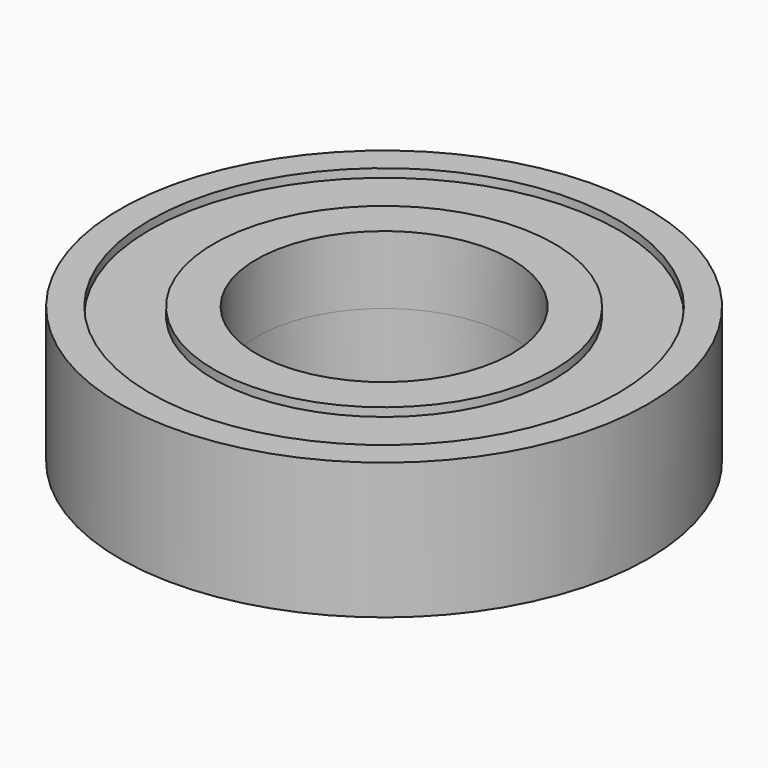
from build123d import *

# Parameters (mm, degrees)
F0_R          = 20
F0_R_2        = 15
F1_DEPTH      = 8
F1_DEPTH_BACK = 8
F0_R_3        = 31
F0_R_4        = 27.5
F2_DEPTH      = 7
F2_DEPTH_BACK = 7


with BuildPart() as f1:
    # F0 (on Top) → F1 (new body, two sides)
    with BuildSketch(Plane.XY) as f1_sk:
        Circle(F0_R)
        Circle(F0_R_2, mode=Mode.SUBTRACT)
    extrude(amount=F1_DEPTH)
    extrude(f1_sk.sketch, amount=-F1_DEPTH_BACK)


with BuildPart() as f1b:
    # F0 (on Top) → F1, piece 2 (new body, two sides)
    with BuildSketch(Plane.XY) as f1_2_sk:
        Circle(F0_R_3)
        Circle(F0_R_4, mode=Mode.SUBTRACT)
    extrude(amount=F1_DEPTH)
    extrude(f1_2_sk.sketch, amount=-F1_DEPTH_BACK)


with BuildPart() as f2:
    # F0 (on Top) → F2 (new body, two sides)
    with BuildSketch(Plane.XY) as f2_sk:
        Circle(F0_R_4)
        Circle(F0_R, mode=Mode.SUBTRACT)
    extrude(amount=F2_DEPTH)
    extrude(f2_sk.sketch, amount=-F2_DEPTH_BACK)


solid = Compound([f1.part, f1b.part, f2.part])
